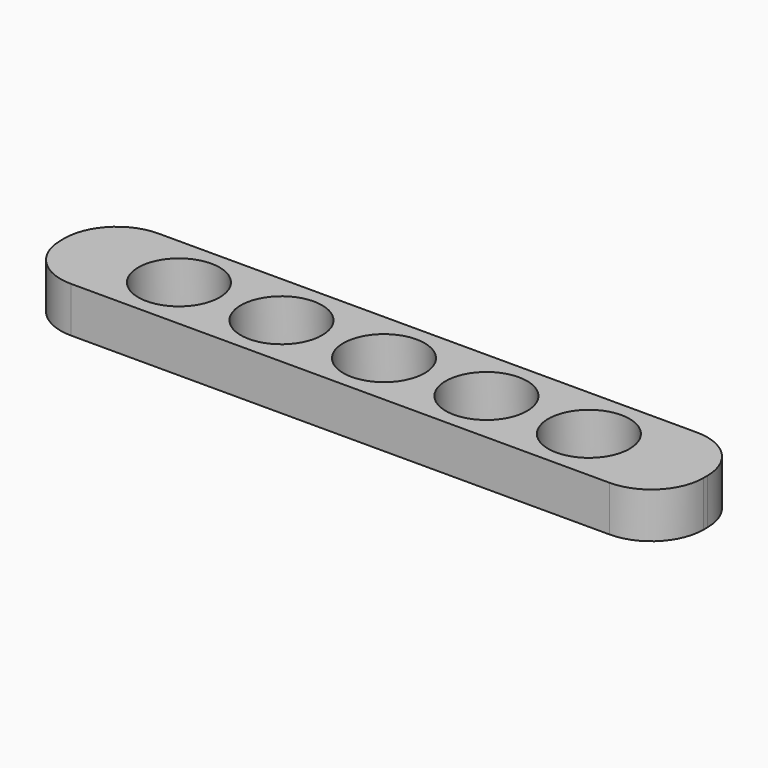
from build123d import *

# Parameters (mm, degrees)
F0_W     = 62.741658
F0_H     = 10.648813
F1_DEPTH = 4.445
F2_R     = 3.967882
F3_DEPTH = 4.446
F4_R     = 5.08
F5_R     = 5.08


with BuildPart() as f1:
    # F0 (on Top) → F1 (new body)
    with BuildSketch(Plane.XY):
        with Locations((-14.9659, -2.158543)):
            Rectangle(F0_W, F0_H)
    extrude(amount=F1_DEPTH)

    # F2 (on face) → F3 (cut, through all)
    with BuildSketch(Plane.XY.offset(4.445)):
        with Locations((-34.9811, -2.158543)):
            Circle(F2_R)
        with Locations((5.0341, -2.158543)):
            Circle(F2_R)
        with Locations((-24.9735, -2.158543)):
            Circle(F2_R)
        with Locations((-14.9659, -2.158543)):
            Circle(F2_R)
        with Locations((-4.9659, -2.158543)):
            Circle(F2_R)
    extrude(amount=-F3_DEPTH, mode=Mode.SUBTRACT)

    # F4
    f4_edges = [f1.edges().sort_by_distance(p)[0] for p in [
        (-46.336729, 3.165863, 2.2225),
        (-46.336729, -7.48295, 2.2225),
    ]]
    fillet(f4_edges, radius=F4_R)

    # F5
    f5_edges = [f1.edges().sort_by_distance(p)[0] for p in [
        (16.404929, -7.48295, 2.2225),
        (16.404929, 3.165863, 2.2225),
    ]]
    fillet(f5_edges, radius=F5_R)


solid = f1.part
